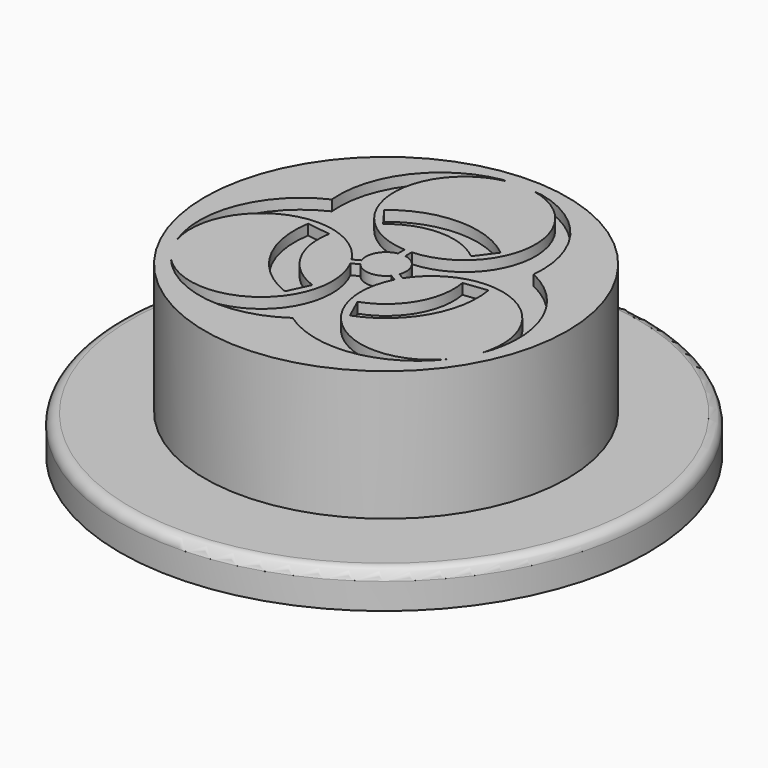
from build123d import *

# Parameters (mm, degrees)
F0_R     = 32.004
F1_DEPTH = 4.445
F2_R     = 21.971
F3_DEPTH = 15.748
F4_R     = 1.27
F6_DEPTH = 1.27
F8_DEPTH = 0.508


with BuildPart() as f1:
    # F0 (on Top) → F1 (new body)
    with BuildSketch(Plane.XY):
        with Locations((0.073482, -0.391256)):
            Circle(F0_R)
    extrude(amount=F1_DEPTH)

    # F2 (on face) → F3 (join)
    with BuildSketch(Plane.XY.offset(4.445)):
        Circle(F2_R)
    extrude(amount=F3_DEPTH)

    # F4
    f4_edges = [f1.edges().sort_by_distance(p)[0] for p in [
        (-31.930518, -0.391256, 4.445),
    ]]
    fillet(f4_edges, radius=F4_R)

    # F5 (on face) → F6 (cut)
    with BuildSketch(Plane.XY.offset(20.193)):
        with BuildLine():
            ThreePointArc((-2.289526, -0.856082), (-2.13389, 1.192192), (-0.471214, 2.398492))
            Line((-0.471214, 2.398492), (-0.471214, 3.399117))
            ThreePointArc((-0.471214, 3.399117), (-8.584584, 11.326412), (-1.725764, 20.361088))
            Line((-1.725764, 20.361088), (-2.096043, 20.395772))
            ThreePointArc((-2.096043, 20.395772), (-9.790587, 15.754955), (-12.280816, 7.121187))
            ThreePointArc((-12.280816, 7.121187), (-18.486635, 0.592049), (-18.592949, -8.415199))
            ThreePointArc((-18.592949, -8.415199), (-13.945533, 1.863373), (-3.122954, -1.317712))
            Line((-3.122954, -1.317712), (-2.289526, -0.856082))
        make_face()
        with BuildLine():
            ThreePointArc((7.011916, 8.595588), (-0.036517, 11.09278), (-7.068357, 8.549237))
            Line((-7.068357, 8.549237), (-5.337452, 6.221216))
            ThreePointArc((-5.337452, 6.221216), (-0.035687, 8.19699), (5.28308, 6.267454))
            Line((5.28308, 6.267454), (7.011916, 8.595588))
        make_face()
        with BuildLine():
            ThreePointArc((1.650786, 20.361088), (8.509606, 11.326412), (0.396236, 3.399117))
            Line((0.396236, 3.399117), (0.396236, 2.412013))
            ThreePointArc((0.396236, 2.412013), (2.107861, 1.237631), (2.299367, -0.829289))
            Line((2.299367, -0.829289), (3.040317, -1.287494))
            ThreePointArc((3.040317, -1.287494), (14.022686, 1.79542), (18.381804, -8.745684))
            ThreePointArc((18.381804, -8.745684), (18.472465, 0.397456), (12.227162, 7.075887))
            ThreePointArc((12.227162, 7.075887), (9.947927, 15.477573), (2.680689, 20.270328))
            Line((2.680689, 20.270328), (1.650786, 20.361088))
        make_face()
        with BuildLine():
            Line((10.93796, 1.8472), (8.060673, 1.489116))
            ThreePointArc((8.060673, 1.489116), (7.093825, -4.107257), (2.721723, -7.73202))
            Line((2.721723, -7.73202), (3.911208, -10.380441))
            ThreePointArc((3.911208, -10.380441), (9.617861, -5.527012), (10.93796, 1.8472))
        make_face()
        with BuildLine():
            ThreePointArc((16.792496, -11.514988), (5.471344, -13.055159), (2.636123, -1.987091))
            Line((2.636123, -1.987091), (1.883489, -1.557972))
            ThreePointArc((1.883489, -1.557972), (-0.004876, -2.444337), (-1.889689, -1.550446))
            Line((-1.889689, -1.550446), (-2.723258, -2.012154))
            ThreePointArc((-2.723258, -2.012154), (-5.402938, -12.96385), (-16.620994, -11.834447))
            ThreePointArc((-16.620994, -11.834447), (-8.773086, -16.253179), (-0.014838, -14.153672))
            ThreePointArc((-0.014838, -14.153672), (8.918758, -16.209761), (16.792496, -11.514988))
        make_face()
        with BuildLine():
            Line((-8.065113, 1.464878), (-10.936939, 1.853233))
            ThreePointArc((-10.936939, 1.853233), (-9.638834, -5.490353), (-3.984428, -10.352557))
            Line((-3.984428, -10.352557), (-2.759033, -7.718786))
            ThreePointArc((-2.759033, -7.718786), (-7.097567, -4.100788), (-8.065113, 1.464878))
        make_face()
    extrude(amount=-F6_DEPTH, mode=Mode.SUBTRACT)

    # F7 (on face) → F8 (cut)
    with BuildSketch(Plane(origin=(0, 0, 0), x_dir=(1, 0, 0), z_dir=(0, 0, -1))):
        with BuildLine():
            ThreePointArc((-3.394815, -1.269363), (-3.164044, 1.767733), (-0.698697, 3.556385))
            Line((-0.698697, 3.556385), (-0.698697, 5.04007))
            ThreePointArc((-0.698697, 5.04007), (-12.728867, 16.794335), (-2.558892, 30.190579))
            Line((-2.558892, 30.190579), (-3.107926, 30.242007))
            ThreePointArc((-3.107926, 30.242007), (-14.517077, 23.360795), (-18.209486, 10.559001))
            ThreePointArc((-18.209486, 10.559001), (-27.411217, 0.877866), (-27.568855, -12.477709))
            ThreePointArc((-27.568855, -12.477709), (-20.677859, 2.762933), (-4.630586, -1.953849))
            Line((-4.630586, -1.953849), (-3.394815, -1.269363))
        make_face()
        with BuildLine():
            ThreePointArc((10.396979, 12.745183), (-0.054146, 16.447916), (-10.480667, 12.676454))
            Line((-10.480667, 12.676454), (-7.914152, 9.224561))
            ThreePointArc((-7.914152, 9.224561), (-0.052915, 12.154157), (7.833533, 9.293121))
            Line((7.833533, 9.293121), (10.396979, 12.745183))
        make_face()
        with BuildLine():
            ThreePointArc((2.447718, 30.190579), (12.617692, 16.794335), (0.587522, 5.04007))
            Line((0.587522, 5.04007), (0.587522, 3.576432))
            ThreePointArc((0.587522, 3.576432), (3.125449, 1.835108), (3.409406, -1.229636))
            Line((3.409406, -1.229636), (4.508056, -1.909044))
            ThreePointArc((4.508056, -1.909044), (20.792258, 2.662175), (27.255778, -12.967738))
            ThreePointArc((27.255778, -12.967738), (27.390206, 0.589332), (18.129931, 10.491833))
            ThreePointArc((18.129931, 10.491833), (14.750374, 22.949505), (3.974815, 30.056004))
            Line((3.974815, 30.056004), (2.447718, 30.190579))
        make_face()
        with BuildLine():
            Line((16.218354, 2.738951), (11.952032, 2.208))
            ThreePointArc((11.952032, 2.208), (10.51843, -6.090071), (4.035658, -11.46472))
            Line((4.035658, -11.46472), (5.799377, -15.391689))
            ThreePointArc((5.799377, -15.391689), (14.260966, -8.195225), (16.218354, 2.738951))
        make_face()
        with BuildLine():
            ThreePointArc((24.899218, -17.073947), (8.112683, -19.35765), (3.908734, -2.946376))
            Line((3.908734, -2.946376), (2.79276, -2.310096))
            ThreePointArc((2.79276, -2.310096), (-0.007229, -3.624362), (-2.801953, -2.298937))
            Line((-2.801953, -2.298937), (-4.037934, -2.983539))
            ThreePointArc((-4.037934, -2.983539), (-8.011253, -19.222261), (-24.644922, -17.547628))
            ThreePointArc((-24.644922, -17.547628), (-13.008369, -24.099542), (-0.022, -20.986479))
            ThreePointArc((-0.022, -20.986479), (13.224366, -24.035163), (24.899218, -17.073947))
        make_face()
        with BuildLine():
            Line((-11.958616, 2.17206), (-16.216841, 2.747898))
            ThreePointArc((-16.216841, 2.747898), (-14.292065, -8.140869), (-5.907945, -15.350344))
            Line((-5.907945, -15.350344), (-4.09098, -11.445096))
            ThreePointArc((-4.09098, -11.445096), (-10.523978, -6.080479), (-11.958616, 2.17206))
        make_face()
    extrude(amount=-F8_DEPTH, mode=Mode.SUBTRACT)


solid = f1.part
